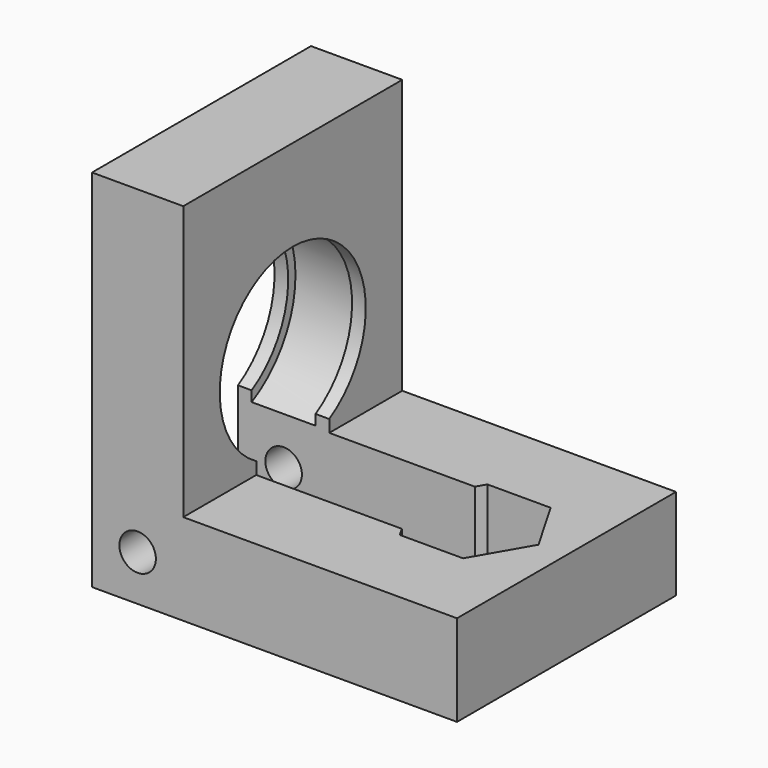
from build123d import *

# Parameters (mm, degrees)
CYLINDER001_R           = 2
CYLINDER001_DEPTH       = 30
CYLINDER001_ROLL_ANGLE  = -90
CYLINDER002_R           = 11
CYLINDER002_DEPTH       = 7
CYLINDER002_PITCH_ANGLE = 90
CYLINDER003_R           = 10
CYLINDER003_DEPTH       = 10
CYLINDER003_PITCH_ANGLE = 90
PAD_DEPTH               = 10
BOX001_W                = 30
BOX001_H                = 10
BOX001_DEPTH            = 15
BOX002_W                = 10
BOX002_H                = 30
BOX002_DEPTH            = 40
BOX_W                   = 40
BOX_H                   = 30
BOX_DEPTH               = 10


with BuildPart() as cylinder001:
    # Cylinder001 → Cylinder001 (new body)
    with BuildSketch(Plane.XY):
        Circle(CYLINDER001_R)
    extrude(amount=CYLINDER001_DEPTH)


with BuildPart() as cylinder001_1:
    # Cylinder001 roll: moved
    add(cylinder001.part.rotate(Axis((0, 0, 0), (1, 0, 0)), CYLINDER001_ROLL_ANGLE))


with BuildPart() as cylinder001_2:
    # Cylinder001 placement: moved
    add(cylinder001_1.part.moved(Location((-15, -15, -15))))


with BuildPart() as bearing_cylinder:
    # Cylinder002 → Cylinder002 (new body)
    with BuildSketch(Plane.XY):
        Circle(CYLINDER002_R)
    extrude(amount=CYLINDER002_DEPTH)


with BuildPart() as bearing_cylinder_1:
    # Cylinder002 pitch: moved
    add(bearing_cylinder.part.rotate(Axis((0, 0, 0), (0, 1, 0)), CYLINDER002_PITCH_ANGLE))


with BuildPart() as bearing_cylinder_2:
    # Cylinder002 placement: moved
    add(bearing_cylinder_1.part.moved(Location((-18.5, 0, 0))))


with BuildPart() as bearing_cylinder_outer:
    # Cylinder003 → Cylinder003 (new body)
    with BuildSketch(Plane.XY):
        Circle(CYLINDER003_R)
    extrude(amount=CYLINDER003_DEPTH)


with BuildPart() as bearing_cylinder_outer_1:
    # Cylinder003 pitch: moved
    add(bearing_cylinder_outer.part.rotate(Axis((0, 0, 0), (0, 1, 0)), CYLINDER003_PITCH_ANGLE))


with BuildPart() as bearing_cylinder_outer_2:
    # Cylinder003 placement: moved
    add(bearing_cylinder_outer_1.part.moved(Location((-20, 0, 0))))


with BuildPart() as body:
    # Sketch → Pad (new body)
    with BuildSketch(Plane.XY):
        Polygon((6.928203, 0), (3.464102, 6), (-3.464102, 6), (-6.928203, 0), (-3.464102, -6), (3.464102, -6), align=None)
    extrude(amount=PAD_DEPTH)


with BuildPart() as body_1:
    # Body placement: moved
    add(body.part.moved(Location((10, 0, -20))))


with BuildPart() as negative_fusion:
    # Box001 → Box001 (new body)
    with BuildSketch(Plane(origin=(-20, -5, -20), x_dir=(1, 0, 0), z_dir=(0, 0, 1))):
        with Locations((15, 5)):
            Rectangle(BOX001_W, BOX001_H)
    extrude(amount=BOX001_DEPTH)

    # Fusion: union Cylinder001, Bearing Cylinder, Bearing Cylinder Outer, Body
    add(cylinder001_2.part)
    add(bearing_cylinder_2.part)
    add(bearing_cylinder_outer_2.part)
    add(body_1.part)


with BuildPart() as cube002:
    # Box002 → Box002 (new body)
    with BuildSketch(Plane(origin=(-20, -15, -20), x_dir=(1, 0, 0), z_dir=(0, 0, 1))):
        with Locations((5, 15)):
            Rectangle(BOX002_W, BOX002_H)
    extrude(amount=BOX002_DEPTH)


with BuildPart() as cut:
    # Box → Box (new body)
    with BuildSketch(Plane(origin=(-20, -15, -20), x_dir=(1, 0, 0), z_dir=(0, 0, 1))):
        with Locations((20, 15)):
            Rectangle(BOX_W, BOX_H)
    extrude(amount=BOX_DEPTH)

    # Fusion001: union Cube002
    add(cube002.part)

    # Cut: cut Negative Fusion
    add(negative_fusion.part, mode=Mode.SUBTRACT)


solid = cut.part
